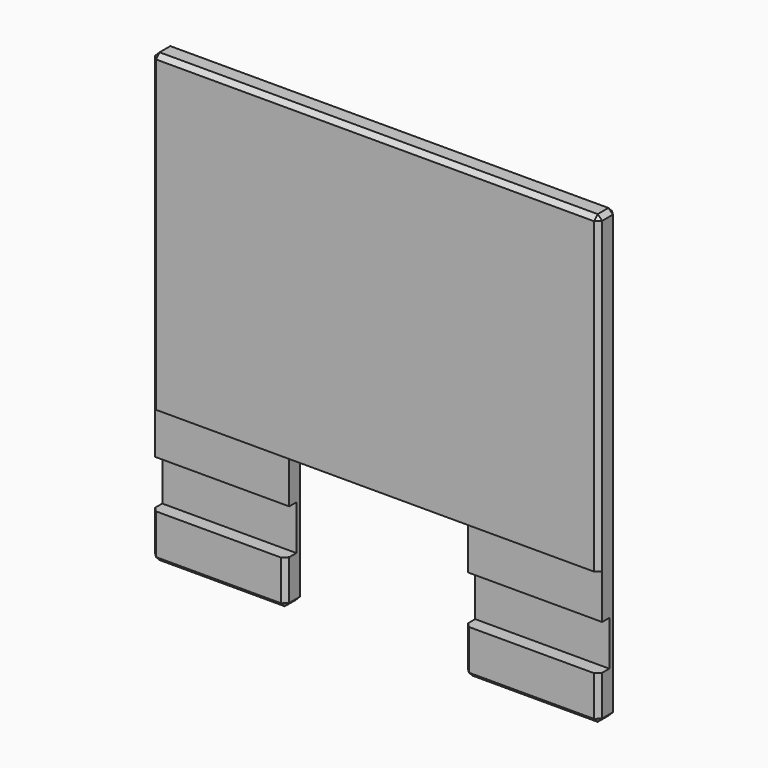
from build123d import *

# Parameters (mm, degrees)
F1_DEPTH = 5
F3_DEPTH = 100
F4_SIZE  = 1


with BuildPart() as f1:
    # F0 (on Front) → F1 (new body)
    with BuildSketch(Plane.XZ):
        Polygon((66.3298651576, -50.2631962299), (66.3298651576, 49.7368037701), (-33.6701348424, 49.7368037701), (-33.6701348424, -50.2631962299), (-3.6701348424, -50.2631962299), (-3.6701348424, -20.2631962299), (16.3298651576, -20.2631962299), (36.3298651576, -20.2631962299), (36.3298651576, -50.2631962299), align=None)
    extrude(amount=F1_DEPTH)

    # F2 (on face) → F3 (cut)
    with BuildSketch(Plane(origin=(-33.6701348424, 0, 0), x_dir=(0, -1, 0), z_dir=(-1, 0, 0))):
        Polygon((2, -40.2631962299), (5, -40.2631962299), (5, -20.2631962299), (4, -20.2631962299), (4, -30.2631962299), (2, -30.2631962299), align=None)
    extrude(amount=-F3_DEPTH, mode=Mode.SUBTRACT)

    # F4
    f4_edges = [f1.edges().sort_by_distance(p)[0] for p in [
        (66.329865, 0, -0.263196),
        (16.329865, 0, 49.736804),
        (-33.670135, 0, -0.263196),
        (-18.670135, 0, -50.263196),
        (-3.670135, 0, -35.263196),
        (16.329865, 0, -20.263196),
        (36.329865, 0, -35.263196),
        (51.329865, 0, -50.263196),
        (66.329865, -5, -45.263196),
        (51.329865, -5, -50.263196),
        (36.329865, -5, -45.263196),
        (-3.670135, -5, -45.263196),
        (-18.670135, -5, -50.263196),
        (-33.670135, -5, -45.263196),
        (66.329865, -2.5, -50.263196),
        (36.329865, -2.5, -50.263196),
        (-3.670135, -2.5, -50.263196),
        (-33.670135, -2.5, -50.263196),
        (-33.670135, -2.5, 49.736804),
        (66.329865, -2.5, 49.736804),
        (-33.670135, -5, 14.736804),
        (16.329865, -5, 49.736804),
        (66.329865, -5, 14.736804),
    ]]
    chamfer(f4_edges, length=F4_SIZE)


solid = f1.part
